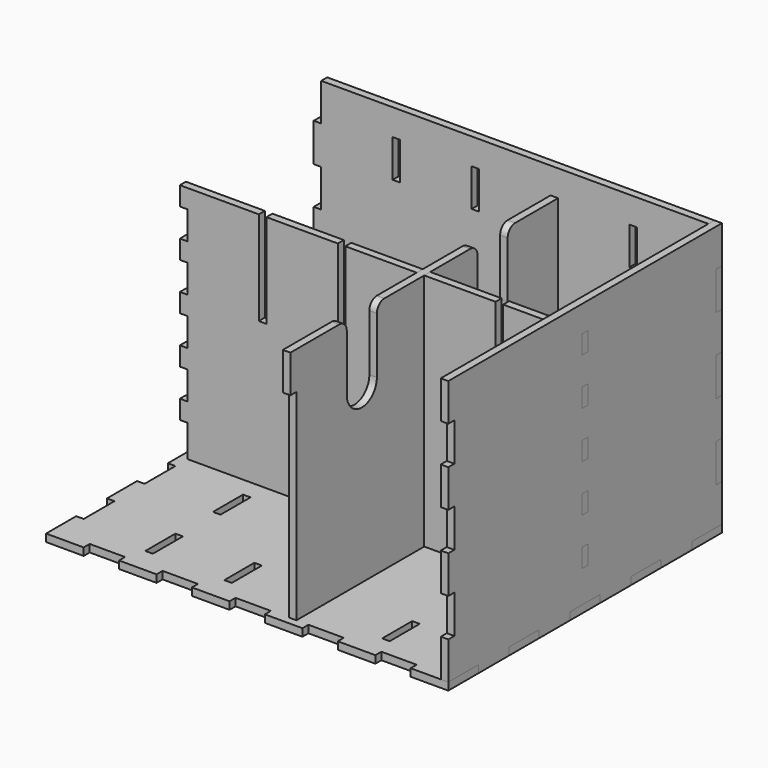
from build123d import *

# Parameters (mm, degrees)
F1_W      = 206
F1_H      = 174
F1_W_2    = 4
F1_H_2    = 20
F1_W_3    = 30
F1_H_3    = 4
F2_DEPTH  = 4
F3_W      = 4
F3_H      = 4
F3_W_2    = 16
F3_H_2    = 16
F3_W_3    = 20
F3_H_3    = 20
F4_DEPTH  = 4
F5_W      = 4
F5_H      = 10
F5_W_2    = 30
F5_H_2    = 4
F6_DEPTH  = 4
F7_W      = 4
F7_H      = 20
F7_W_2    = 20
F7_H_2    = 4
F8_DEPTH  = 4
F9_W      = 4
F9_H      = 10
F9_H_2    = 20
F9_W_2    = 20.5
F9_H_3    = 4
F10_DEPTH = 4
F11_W     = 4
F11_H     = 20
F11_H_2   = 20.3333333333
F11_W_2   = 18.8
F11_H_3   = 4
F12_DEPTH = 4


with BuildPart() as f2:
    # F1 (on Top) → F2 (new body)
    with BuildSketch(Plane.XY):
        Rectangle(F1_W, F1_H)
        with Locations((-63, -67.5)):
            Rectangle(F1_W_2, F1_H_2, mode=Mode.SUBTRACT)
        with Locations((-21, -67.5)):
            Rectangle(F1_W_2, F1_H_2, mode=Mode.SUBTRACT)
        with Locations((-63, -22.5)):
            Rectangle(F1_W_2, F1_H_2, mode=Mode.SUBTRACT)
        with Locations((-21, -22.5)):
            Rectangle(F1_W_2, F1_H_2, mode=Mode.SUBTRACT)
        with Locations((21, -67.5)):
            Rectangle(F1_W_2, F1_H_2, mode=Mode.SUBTRACT)
        with Locations((63, -67.5)):
            Rectangle(F1_W_2, F1_H_2, mode=Mode.SUBTRACT)
        with Locations((21, -22.5)):
            Rectangle(F1_W_2, F1_H_2, mode=Mode.SUBTRACT)
        with Locations((63, -22.5)):
            Rectangle(F1_W_2, F1_H_2, mode=Mode.SUBTRACT)
        with Locations((-70, 0)):
            Rectangle(F1_W_3, F1_H_3, mode=Mode.SUBTRACT)
        with Locations((-63, 22.5)):
            Rectangle(F1_W_2, F1_H_2, mode=Mode.SUBTRACT)
        Rectangle(F1_W_3, F1_H_3, mode=Mode.SUBTRACT)
        with Locations((-21, 22.5)):
            Rectangle(F1_W_2, F1_H_2, mode=Mode.SUBTRACT)
        with Locations((-63, 67.5)):
            Rectangle(F1_W_2, F1_H_2, mode=Mode.SUBTRACT)
        with Locations((-21, 67.5)):
            Rectangle(F1_W_2, F1_H_2, mode=Mode.SUBTRACT)
        with Locations((21, 22.5)):
            Rectangle(F1_W_2, F1_H_2, mode=Mode.SUBTRACT)
        with Locations((70, 0)):
            Rectangle(F1_W_3, F1_H_3, mode=Mode.SUBTRACT)
        with Locations((63, 22.5)):
            Rectangle(F1_W_2, F1_H_2, mode=Mode.SUBTRACT)
        with Locations((21, 67.5)):
            Rectangle(F1_W_2, F1_H_2, mode=Mode.SUBTRACT)
        with Locations((63, 67.5)):
            Rectangle(F1_W_2, F1_H_2, mode=Mode.SUBTRACT)
    extrude(amount=F2_DEPTH)

    # F3 (on face) → F4 (join)
    with BuildSketch(Plane.XY.offset(4)):
        with Locations((-105, 89)):
            Rectangle(F3_W, F3_H)
        with Locations((-95, 89)):
            Rectangle(F3_W_2, F3_H)
        with Locations((-105, 79)):
            Rectangle(F3_W, F3_H_2)
        with Locations((-58.2, 89)):
            Rectangle(F3_W_3, F3_H)
        with Locations((-19.4, 89)):
            Rectangle(F3_W_3, F3_H)
        with Locations((19.4, 89)):
            Rectangle(F3_W_3, F3_H)
        with Locations((58.2, 89)):
            Rectangle(F3_W_3, F3_H)
        with Locations((95, 89)):
            Rectangle(F3_W_2, F3_H)
        with Locations((105, 89)):
            Rectangle(F3_W, F3_H)
        with Locations((105, 79)):
            Rectangle(F3_W, F3_H_2)
        with Locations((-105, 40.5)):
            Rectangle(F3_W, F3_H_3)
        with Locations((-105, 0)):
            Rectangle(F3_W, F3_H_3)
        with Locations((-105, -40.5)):
            Rectangle(F3_W, F3_H_3)
        with Locations((-105, -79)):
            Rectangle(F3_W, F3_H_2)
        with Locations((-105, -89)):
            Rectangle(F3_W, F3_H)
        with Locations((-95, -89)):
            Rectangle(F3_W_2, F3_H)
        with Locations((105, 40.5)):
            Rectangle(F3_W, F3_H_3)
        with Locations((105, 0)):
            Rectangle(F3_W, F3_H_3)
        with Locations((105, -89)):
            Rectangle(F3_W, F3_H)
        with Locations((95, -89)):
            Rectangle(F3_W_2, F3_H)
        with Locations((105, -79)):
            Rectangle(F3_W, F3_H_2)
        with Locations((105, -40.5)):
            Rectangle(F3_W, F3_H_3)
        with Locations((-58.2, -89)):
            Rectangle(F3_W_3, F3_H)
        with Locations((58.2, -89)):
            Rectangle(F3_W_3, F3_H)
        with Locations((-19.4, -89)):
            Rectangle(F3_W_3, F3_H)
        with Locations((19.4, -89)):
            Rectangle(F3_W_3, F3_H)
    extrude(amount=-F4_DEPTH)


with BuildPart() as f6:
    # F5 (on face) → F6 (new body)
    with BuildSketch(Plane(origin=(0, -2, 0), x_dir=(-1, 0, 0), z_dir=(0, 1, 0))):
        Polygon((-65, 131), (-103, 131), (-103, 121), (-103, 106), (-103, 96), (-103, 81), (-103, 71), (-103, 56), (-103, 46), (-103, 31), (-103, 21), (-103, 4), (-85, 4), (-55, 4), (-15, 4), (15, 4), (55, 4), (85, 4), (103, 4), (103, 21), (103, 31), (103, 46), (103, 56), (103, 71), (103, 81), (103, 96), (103, 106), (103, 121), (103, 131), (65, 131), (65, 81), (61, 81), (61, 131), (23, 131), (23, 81), (19, 81), (19, 131), (-19, 131), (-19, 81), (-23, 81), (-23, 131), (-61, 131), (-61, 81), (-65, 81), align=None)
        with Locations((-105, 126)):
            Rectangle(F5_W, F5_H)
        with Locations((-105, 101)):
            Rectangle(F5_W, F5_H)
        with Locations((-105, 76)):
            Rectangle(F5_W, F5_H)
        with Locations((-105, 51)):
            Rectangle(F5_W, F5_H)
        with Locations((-105, 26)):
            Rectangle(F5_W, F5_H)
        with Locations((-70, 2)):
            Rectangle(F5_W_2, F5_H_2)
        with Locations((0, 2)):
            Rectangle(F5_W_2, F5_H_2)
        with Locations((70, 2)):
            Rectangle(F5_W_2, F5_H_2)
        with Locations((105, 126)):
            Rectangle(F5_W, F5_H)
        with Locations((105, 26)):
            Rectangle(F5_W, F5_H)
        with Locations((105, 101)):
            Rectangle(F5_W, F5_H)
        with Locations((105, 51)):
            Rectangle(F5_W, F5_H)
        with Locations((105, 76)):
            Rectangle(F5_W, F5_H)
    extrude(amount=F6_DEPTH)


with BuildPart() as f8:
    # F7 (on face) → F8 (new body)
    with BuildSketch(Plane(origin=(23, 0, 0), x_dir=(0, -1, 0), z_dir=(-1, 0, 0))):
        with BuildLine():
            Line((-58.5, 131), (-87, 131))
            Line((-87, 131), (-87, 111))
            Line((-87, 111), (-87, 4))
            Line((-87, 4), (-77.5, 4))
            Line((-77.5, 4), (-57.5, 4))
            Line((-57.5, 4), (-32.5, 4))
            Line((-32.5, 4), (-12.5, 4))
            Line((-12.5, 4), (-2, 4))
            Line((-2, 4), (-2, 81))
            Line((-2, 81), (2, 81))
            Line((2, 81), (2, 4))
            Line((2, 4), (12.5, 4))
            Line((12.5, 4), (32.5, 4))
            Line((32.5, 4), (57.5, 4))
            Line((57.5, 4), (77.5, 4))
            Line((77.5, 4), (87, 4))
            Line((87, 4), (87, 111))
            Line((87, 111), (87, 131))
            Line((87, 131), (58.5, 131))
            ThreePointArc((58.5, 131), (54.9644660941, 129.5355339059), (53.5, 126))
            Line((53.5, 126), (53.5, 96))
            ThreePointArc((53.5, 96), (43.5, 86), (33.5, 96))
            Line((33.5, 96), (33.5, 126))
            ThreePointArc((33.5, 126), (32.0355339059, 129.5355339059), (28.5, 131))
            Line((28.5, 131), (-28.5, 131))
            ThreePointArc((-28.5, 131), (-32.0355339059, 129.5355339059), (-33.5, 126))
            Line((-33.5, 126), (-33.5, 96))
            ThreePointArc((-33.5, 96), (-43.5, 86), (-53.5, 96))
            Line((-53.5, 96), (-53.5, 126))
            ThreePointArc((-53.5, 126), (-54.9644660941, 129.5355339059), (-58.5, 131))
        make_face()
        with Locations((-89, 121)):
            Rectangle(F7_W, F7_H)
        with Locations((-67.5, 2)):
            Rectangle(F7_W_2, F7_H_2)
        with Locations((-22.5, 2)):
            Rectangle(F7_W_2, F7_H_2)
        with Locations((22.5, 2)):
            Rectangle(F7_W_2, F7_H_2)
        with Locations((89, 121)):
            Rectangle(F7_W, F7_H)
        with Locations((67.5, 2)):
            Rectangle(F7_W_2, F7_H_2)
    extrude(amount=F8_DEPTH)


with BuildPart() as f10:
    # F9 (on face) → F10 (new body)
    with BuildSketch(Plane.YZ.offset(103)):
        Polygon((87, 145), (-87, 145), (-87, 125), (-87, 104.6666666667), (-87, 84.6666666667), (-87, 64.3333333333), (-87, 44.3333333333), (-87, 24), (-87, 4), (-71, 4), (-50.5, 4), (-30.5, 4), (-10, 4), (10, 4), (30.5, 4), (50.5, 4), (71, 4), (87, 4), (87, 24), (87, 44.3333333333), (87, 64.3333333333), (87, 84.6666666667), (87, 104.6666666667), (87, 125), align=None)
        with Locations((0, 26)):
            Rectangle(F9_W, F9_H, mode=Mode.SUBTRACT)
        with Locations((0, 51)):
            Rectangle(F9_W, F9_H, mode=Mode.SUBTRACT)
        with Locations((0, 76)):
            Rectangle(F9_W, F9_H, mode=Mode.SUBTRACT)
        with Locations((0, 101)):
            Rectangle(F9_W, F9_H, mode=Mode.SUBTRACT)
        with Locations((0, 126)):
            Rectangle(F9_W, F9_H, mode=Mode.SUBTRACT)
        with Locations((-89, 135)):
            Rectangle(F9_W, F9_H_2)
        with Locations((89, 135)):
            Rectangle(F9_W, F9_H_2)
        with Locations((-89, 94.6666666667)):
            Rectangle(F9_W, F9_H_2)
        with Locations((89, 94.6666666667)):
            Rectangle(F9_W, F9_H_2)
        with Locations((-89, 54.3333333333)):
            Rectangle(F9_W, F9_H_2)
        with Locations((89, 54.3333333333)):
            Rectangle(F9_W, F9_H_2)
        with Locations((-89, 14)):
            Rectangle(F9_W, F9_H_2)
        with Locations((89, 14)):
            Rectangle(F9_W, F9_H_2)
        with Locations((-60.75, 2)):
            Rectangle(F9_W_2, F9_H_3)
        with Locations((60.75, 2)):
            Rectangle(F9_W_2, F9_H_3)
        with Locations((-20.25, 2)):
            Rectangle(F9_W_2, F9_H_3)
        with Locations((20.25, 2)):
            Rectangle(F9_W_2, F9_H_3)
    extrude(amount=F10_DEPTH)


with BuildPart() as f12:
    # F11 (on face) → F12 (new body)
    with BuildSketch(Plane(origin=(0, 87, 0), x_dir=(-1, 0, 0), z_dir=(0, 1, 0))):
        Polygon((103, 145), (-103, 145), (-103, 125), (-103, 104.6666666667), (-103, 84.6666666667), (-103, 64.3333333333), (-103, 44.3333333333), (-103, 24), (-103, 4), (-87, 4), (-68.2, 4), (-48.2, 4), (-29.4, 4), (-9.4, 4), (9.4, 4), (29.4, 4), (48.2, 4), (68.2, 4), (87, 4), (103, 4), (103, 24), (103, 44.3333333333), (103, 64.3333333333), (103, 84.6666666667), (103, 104.6666666667), (103, 125), align=None)
        with Locations((-63, 121)):
            Rectangle(F11_W, F11_H, mode=Mode.SUBTRACT)
        with Locations((-21, 121)):
            Rectangle(F11_W, F11_H, mode=Mode.SUBTRACT)
        with Locations((21, 121)):
            Rectangle(F11_W, F11_H, mode=Mode.SUBTRACT)
        with Locations((63, 121)):
            Rectangle(F11_W, F11_H, mode=Mode.SUBTRACT)
        with Locations((-105, 114.8333333333)):
            Rectangle(F11_W, F11_H_2)
        with Locations((105, 114.8333333333)):
            Rectangle(F11_W, F11_H_2)
        with Locations((-105, 74.5)):
            Rectangle(F11_W, F11_H_2)
        with Locations((105, 74.5)):
            Rectangle(F11_W, F11_H_2)
        with Locations((-105, 34.1666666667)):
            Rectangle(F11_W, F11_H_2)
        with Locations((105, 34.1666666667)):
            Rectangle(F11_W, F11_H_2)
        with Locations((-77.6, 2)):
            Rectangle(F11_W_2, F11_H_3)
        with Locations((77.6, 2)):
            Rectangle(F11_W_2, F11_H_3)
        with Locations((-38.8, 2)):
            Rectangle(F11_W_2, F11_H_3)
        with Locations((38.8, 2)):
            Rectangle(F11_W_2, F11_H_3)
        with Locations((0, 2)):
            Rectangle(F11_W_2, F11_H_3)
    extrude(amount=F12_DEPTH)


solid = Compound([f2.part, f6.part, f8.part, f10.part, f12.part])
